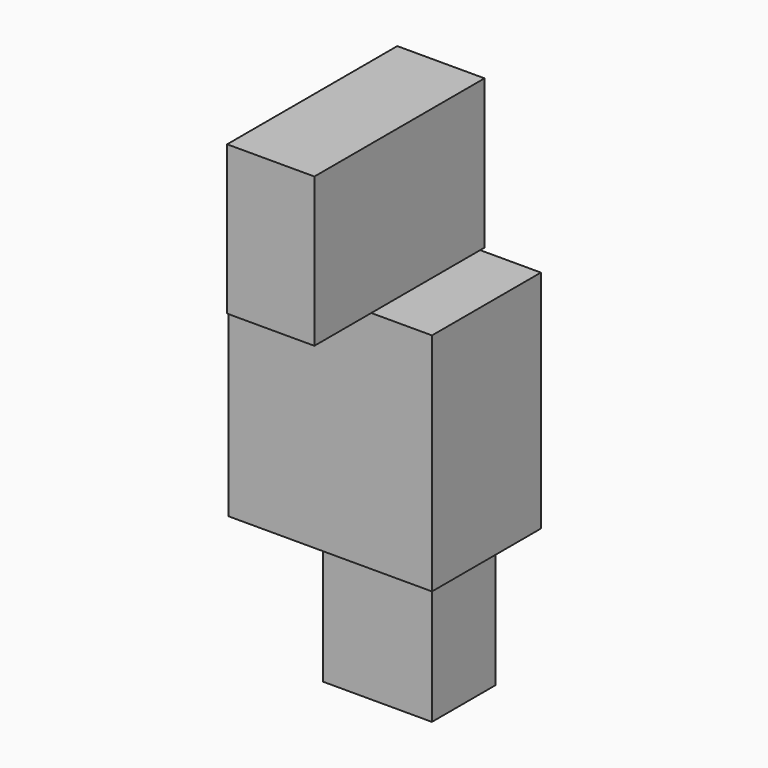
from build123d import *

# Parameters (mm, degrees)
F0_W     = 21.538461
F0_H     = 23.846156
F1_DEPTH = 14.4
F3_DEPTH = 8.4
F4_W     = 9.23077
F4_H     = 15.769232
F5_DEPTH = 22.5


with BuildPart() as f1:
    # F0 (on Front) → F1 (new body)
    with BuildSketch(Plane.XZ):
        with Locations((0, -2.019231)):
            Rectangle(F0_W, F0_H)
    extrude(amount=F1_DEPTH)


with BuildPart() as f3:
    # F2 (on Front) → F3 (new body)
    with BuildSketch(Plane.XZ):
        Polygon((5.961541, -14.134617), (-5.576923, -14.326924), (-5.576923, -30.096157), (5.961541, -30.096157), align=None)
    extrude(amount=F3_DEPTH)


with BuildPart() as f5:
    # F4 (on Front) → F5 (new body)
    with BuildSketch(Plane.XZ):
        with Locations((0.192307, 18.173078)):
            Rectangle(F4_W, F4_H)
    extrude(amount=F5_DEPTH)


solid = Compound([f1.part, f3.part, f5.part])
